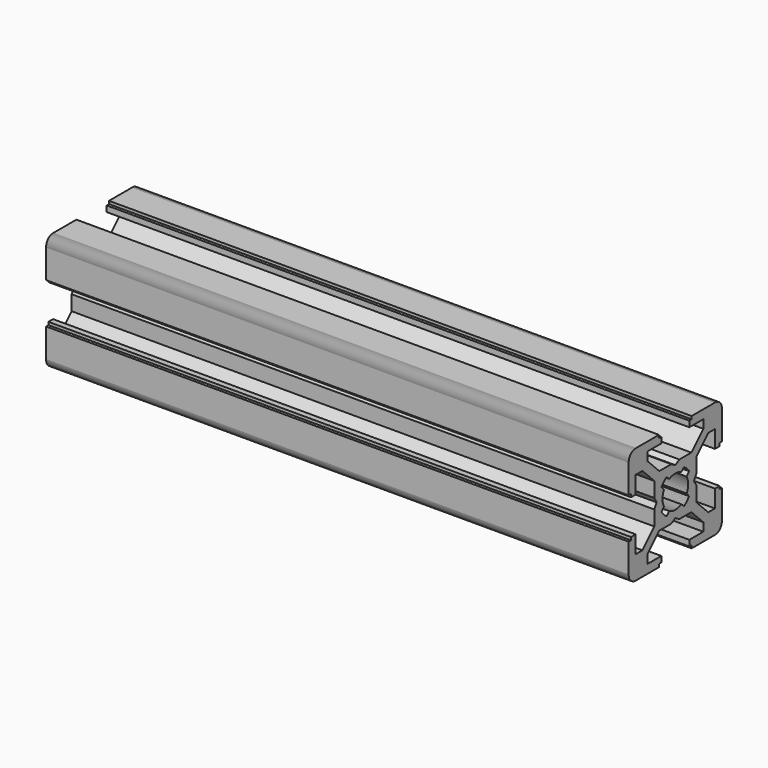
from build123d import *

# Parameters (mm, degrees)
F1_DEPTH = 100


with BuildPart() as f1:
    # F0 (on Right) → F1 (new body)
    with BuildSketch(Plane.YZ):
        Polygon((-10, -8.5), (-9.998489, -8.567297), (-9.993961, -8.634459), (-9.986424, -8.70135), (-9.975894, -8.767836), (-9.962392, -8.833781), (-9.945944, -8.899055), (-9.926585, -8.963526), (-9.904352, -9.027062), (-9.879292, -9.089538), (-9.851453, -9.150826), (-9.820893, -9.210803), (-9.787673, -9.269349), (-9.75186, -9.326345), (-9.713526, -9.381678), (-9.672748, -9.435235), (-9.629607, -9.486908), (-9.584192, -9.536594), (-9.536594, -9.584192), (-9.486908, -9.629607), (-9.435235, -9.672748), (-9.381678, -9.713526), (-9.326345, -9.75186), (-9.269349, -9.787673), (-9.210803, -9.820893), (-9.150826, -9.851453), (-9.089538, -9.879292), (-9.027062, -9.904352), (-8.963526, -9.926585), (-8.899055, -9.945944), (-8.833781, -9.962392), (-8.767836, -9.975894), (-8.70135, -9.986424), (-8.634459, -9.993961), (-8.567297, -9.998489), (-8.5, -10), (-3.5, -10), (-3.5, -9.5), (-3, -9.5), (-3, -8.5), (-6, -8.5), (-6, -7.06066), (-3.43934, -4.5), (-0.866025, -4.5), (0, -4), (0.866025, -4.5), (3.43934, -4.5), (6, -7.06066), (6, -8.5), (3, -8.5), (3, -9.5), (3.5, -9.5), (3.5, -10), (8.5, -10), (8.567297, -9.998489), (8.634459, -9.993961), (8.70135, -9.986424), (8.767836, -9.975894), (8.833781, -9.962392), (8.899055, -9.945944), (8.963526, -9.926585), (9.027062, -9.904352), (9.089538, -9.879292), (9.150826, -9.851453), (9.210803, -9.820893), (9.269349, -9.787673), (9.326345, -9.75186), (9.381678, -9.713526), (9.435235, -9.672748), (9.486908, -9.629607), (9.536594, -9.584192), (9.584192, -9.536594), (9.629607, -9.486908), (9.672748, -9.435235), (9.713526, -9.381678), (9.75186, -9.326345), (9.787673, -9.269349), (9.820893, -9.210803), (9.851453, -9.150826), (9.879292, -9.089538), (9.904352, -9.027062), (9.926585, -8.963526), (9.945944, -8.899055), (9.962392, -8.833781), (9.975894, -8.767836), (9.986424, -8.70135), (9.993961, -8.634459), (9.998489, -8.567297), (10, -8.5), (10, -3.5), (9.5, -3.5), (9.5, -3), (8.5, -3), (8.5, -6), (7.06066, -6), (4.5, -3.43934), (4.5, -0.866025), (4, 0), (4.5, 0.866025), (4.5, 3.43934), (7.06066, 6), (8.5, 6), (8.5, 3), (9.5, 3), (9.5, 3.5), (10, 3.5), (10, 8.5), (9.998489, 8.567297), (9.993961, 8.634459), (9.986424, 8.70135), (9.975894, 8.767836), (9.962392, 8.833781), (9.945944, 8.899055), (9.926585, 8.963526), (9.904352, 9.027062), (9.879292, 9.089538), (9.851453, 9.150826), (9.820893, 9.210803), (9.787673, 9.269349), (9.75186, 9.326345), (9.713526, 9.381678), (9.672748, 9.435235), (9.629607, 9.486908), (9.584192, 9.536594), (9.536594, 9.584192), (9.486908, 9.629607), (9.435235, 9.672748), (9.381678, 9.713526), (9.326345, 9.75186), (9.269349, 9.787673), (9.210803, 9.820893), (9.150826, 9.851453), (9.089538, 9.879292), (9.027062, 9.904352), (8.963526, 9.926585), (8.899055, 9.945944), (8.833781, 9.962392), (8.767836, 9.975894), (8.70135, 9.986424), (8.634459, 9.993961), (8.567297, 9.998489), (8.5, 10), (3.5, 10), (3.5, 9.5), (3, 9.5), (3, 8.5), (6, 8.5), (6, 7.06066), (3.43934, 4.5), (0.866025, 4.5), (0, 4), (-0.866025, 4.5), (-3.43934, 4.5), (-6, 7.06066), (-6, 8.5), (-3, 8.5), (-3, 9.5), (-3.5, 9.5), (-3.5, 10), (-8.5, 10), (-8.567297, 9.998489), (-8.634459, 9.993961), (-8.70135, 9.986424), (-8.767836, 9.975894), (-8.833781, 9.962392), (-8.899055, 9.945944), (-8.963526, 9.926585), (-9.027062, 9.904352), (-9.089538, 9.879292), (-9.150826, 9.851453), (-9.210803, 9.820893), (-9.269349, 9.787673), (-9.326345, 9.75186), (-9.381678, 9.713526), (-9.435235, 9.672748), (-9.486908, 9.629607), (-9.536594, 9.584192), (-9.584192, 9.536594), (-9.629607, 9.486908), (-9.672748, 9.435235), (-9.713526, 9.381678), (-9.75186, 9.326345), (-9.787673, 9.269349), (-9.820893, 9.210803), (-9.851453, 9.150826), (-9.879292, 9.089538), (-9.904352, 9.027062), (-9.926585, 8.963526), (-9.945944, 8.899055), (-9.962392, 8.833781), (-9.975894, 8.767836), (-9.986424, 8.70135), (-9.993961, 8.634459), (-9.998489, 8.567297), (-10, 8.5), (-10, 3.5), (-9.5, 3.5), (-9.5, 3), (-8.5, 3), (-8.5, 6), (-7.06066, 6), (-4.5, 3.43934), (-4.5, 0.866025), (-4, 0), (-4.5, -0.866025), (-4.5, -3.43934), (-7.06066, -6), (-8.5, -6), (-8.5, -3), (-9.5, -3), (-9.5, -3.5), (-10, -3.5), align=None)
        Polygon((-2.727834, -0.348454), (-2.742013, -0.209433), (-2.749112, -0.069871), (-2.749112, 0.069871), (-2.742013, 0.209433), (-2.727834, 0.348454), (-2.706611, 0.486575), (-2.678399, 0.623439), (-2.643271, 0.758694), (-2.601318, 0.89199), (-2.552647, 1.022982), (-2.497385, 1.151333), (-2.435674, 1.276711), (-2.947757, 1.886989), (-2.871411, 2.00125), (-2.790637, 2.112426), (-2.705562, 2.220345), (-2.616316, 2.324842), (-2.523037, 2.425755), (-2.425868, 2.522928), (-2.32496, 2.616212), (-2.220467, 2.705462), (-2.112551, 2.790543), (-2.001379, 2.871321), (-1.887121, 2.947673), (-1.276855, 2.435599), (-1.151465, 2.497324), (-1.023101, 2.552599), (-0.892095, 2.601282), (-0.758785, 2.643245), (-0.623514, 2.678382), (-0.486634, 2.706601), (-0.348496, 2.727829), (-0.209458, 2.742012), (-0.06988, 2.749112), (0.06988, 2.749112), (0.209458, 2.742012), (0.348496, 2.727829), (0.486634, 2.706601), (0.623514, 2.678382), (0.758785, 2.643245), (0.892095, 2.601282), (1.023101, 2.552599), (1.151465, 2.497324), (1.276855, 2.435599), (1.887121, 2.947673), (2.001379, 2.871321), (2.112551, 2.790543), (2.220467, 2.705462), (2.32496, 2.616212), (2.425868, 2.522928), (2.523037, 2.425755), (2.616316, 2.324842), (2.705562, 2.220345), (2.790637, 2.112426), (2.871411, 2.00125), (2.947757, 1.886989), (2.435674, 1.276711), (2.497385, 1.151333), (2.552647, 1.022982), (2.601318, 0.89199), (2.643271, 0.758694), (2.678399, 0.623439), (2.706611, 0.486575), (2.727834, 0.348454), (2.742013, 0.209433), (2.749112, 0.069871), (2.749112, -0.069871), (2.742013, -0.209433), (2.727834, -0.348454), (2.706611, -0.486575), (2.678399, -0.623439), (2.643271, -0.758694), (2.601318, -0.89199), (2.552647, -1.022982), (2.497385, -1.151333), (2.435674, -1.276711), (2.947757, -1.886989), (2.871411, -2.00125), (2.790637, -2.112426), (2.705562, -2.220345), (2.616316, -2.324842), (2.523037, -2.425755), (2.425868, -2.522928), (2.32496, -2.616212), (2.220467, -2.705462), (2.112551, -2.790543), (2.001379, -2.871321), (1.887121, -2.947673), (1.276855, -2.435599), (1.151465, -2.497324), (1.023101, -2.552599), (0.892095, -2.601282), (0.758785, -2.643245), (0.623514, -2.678382), (0.486634, -2.706601), (0.348496, -2.727829), (0.209458, -2.742012), (0.06988, -2.749112), (-0.06988, -2.749112), (-0.209458, -2.742012), (-0.348496, -2.727829), (-0.486634, -2.706601), (-0.623514, -2.678382), (-0.758785, -2.643245), (-0.892095, -2.601282), (-1.023101, -2.552599), (-1.151465, -2.497324), (-1.276855, -2.435599), (-1.887121, -2.947673), (-2.001379, -2.871321), (-2.112551, -2.790543), (-2.220467, -2.705462), (-2.32496, -2.616212), (-2.425868, -2.522928), (-2.523037, -2.425755), (-2.616316, -2.324842), (-2.705562, -2.220345), (-2.790637, -2.112426), (-2.871411, -2.00125), (-2.947757, -1.886989), (-2.435674, -1.276711), (-2.497385, -1.151333), (-2.552647, -1.022982), (-2.601318, -0.89199), (-2.643271, -0.758694), (-2.678399, -0.623439), (-2.706611, -0.486575), align=None, mode=Mode.SUBTRACT)
    extrude(amount=F1_DEPTH)


solid = f1.part
